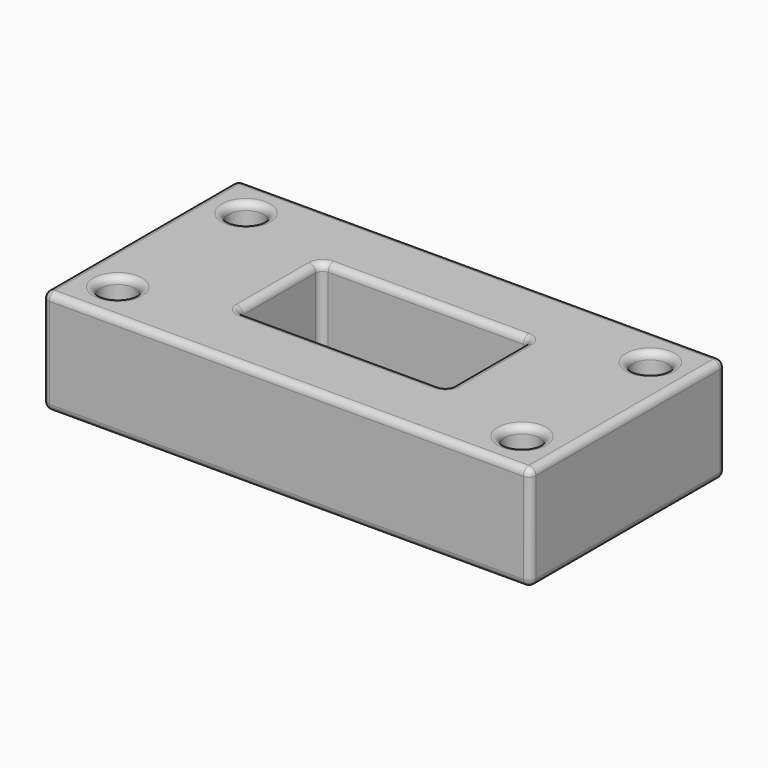
from build123d import *

# Parameters (mm, degrees)
F0_W     = 140
F0_H     = 70
F0_R     = 5
F0_W_2   = 60
F0_H_2   = 30
F1_DEPTH = 30
F2_R     = 2


with BuildPart() as f1:
    # F0 (on Top) → F1 (new body)
    with BuildSketch(Plane.XY):
        Rectangle(F0_W, F0_H)
        with Locations((-58, -23)):
            Circle(F0_R, mode=Mode.SUBTRACT)
        with Locations((58, -23)):
            Circle(F0_R, mode=Mode.SUBTRACT)
        with Locations((-58, 23)):
            Circle(F0_R, mode=Mode.SUBTRACT)
        Rectangle(F0_W_2, F0_H_2, mode=Mode.SUBTRACT)
        with Locations((58, 23)):
            Circle(F0_R, mode=Mode.SUBTRACT)
    extrude(amount=F1_DEPTH)

    # F2
    f2_edges = [f1.edges().sort_by_distance(p)[0] for p in [
        (0, 35, 30),
        (-70, 0, 30),
        (0, -35, 30),
        (70, 0, 30),
        (-63, -23, 30),
        (53, -23, 30),
        (-63, 23, 30),
        (-30, 0, 30),
        (0, 15, 30),
        (30, 0, 30),
        (0, -15, 30),
        (53, 23, 30),
        (-70, -35, 15),
        (70, -35, 15),
        (0, -35, 0),
        (-70, 35, 15),
        (-70, 0, 0),
        (0, 35, 0),
        (70, 0, 0),
        (-63, -23, 0),
        (53, -23, 0),
        (-63, 23, 0),
        (-30, 0, 0),
        (0, 15, 0),
        (30, 0, 0),
        (0, -15, 0),
        (53, 23, 0),
        (30, 15, 15),
        (30, -15, 15),
        (-30, -15, 15),
        (-30, 15, 15),
        (70, 35, 15),
    ]]
    fillet(f2_edges, radius=F2_R)


solid = f1.part
